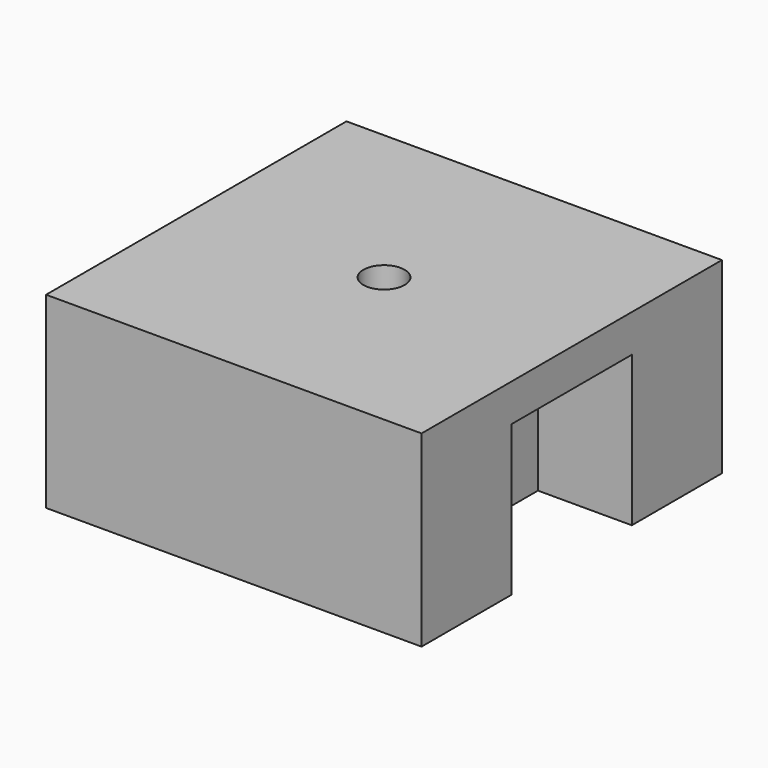
from build123d import *

# Parameters (mm, degrees)
F0_W     = 40
F0_H     = 40
F1_DEPTH = 20
F2_W     = 16
F2_H     = 16
F3_DEPTH = 10
F5_D     = 4.4


with BuildPart() as f1:
    # F0 (on Top) → F1 (new body)
    with BuildSketch(Plane.XY):
        Rectangle(F0_W, F0_H)
    extrude(amount=F1_DEPTH)

    # F2 (on face) → F3 (cut)
    with BuildSketch(Plane.YZ.offset(20)):
        with Locations((0, 8)):
            Rectangle(F2_W, F2_H)
    extrude(amount=-F3_DEPTH, mode=Mode.SUBTRACT)

    # F5 (through all)
    with Locations(Plane.XY.offset(20)):
        with Locations((0, 0)):
            Hole(F5_D / 2)


solid = f1.part
